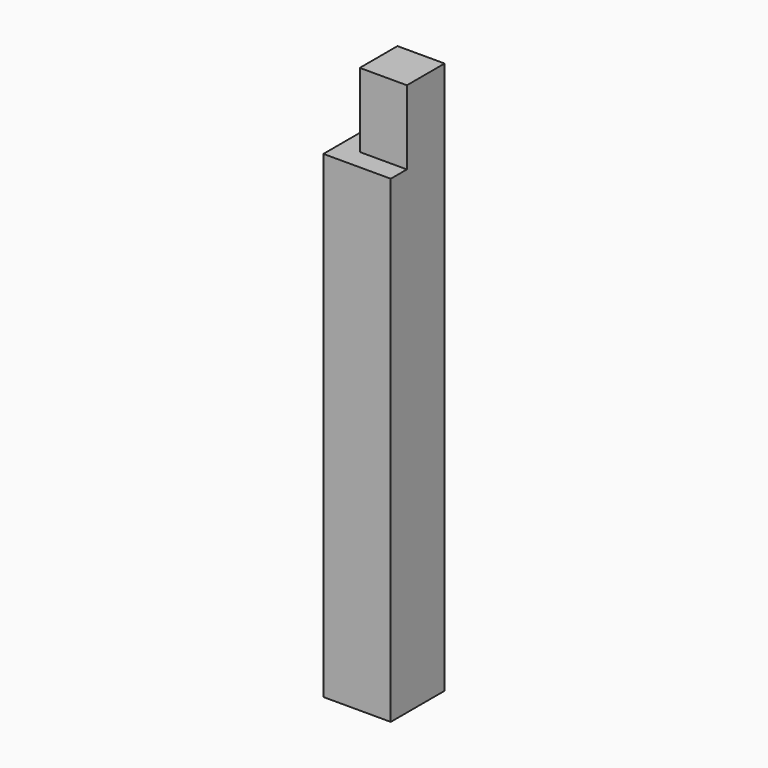
from build123d import *

# Parameters (mm, degrees)
SKETCH_W     = 100
SKETCH_H     = 100
PAD_DEPTH    = 410
POCKET_DEPTH = 110


with BuildPart() as part:
    # Sketch → Pad (new body, symmetric)
    with BuildSketch(Plane.XY):
        Rectangle(SKETCH_W, SKETCH_H)
    extrude(amount=PAD_DEPTH, both=True)

    # Sketch001 → Pocket (cut)
    with BuildSketch(Plane.XY.offset(410)):
        Polygon((50, -50), (-50, -50), (-50, 50), (-20, 50), (-20, -20), (50, -20), align=None)
    extrude(amount=-POCKET_DEPTH, mode=Mode.SUBTRACT)


solid = part.part
